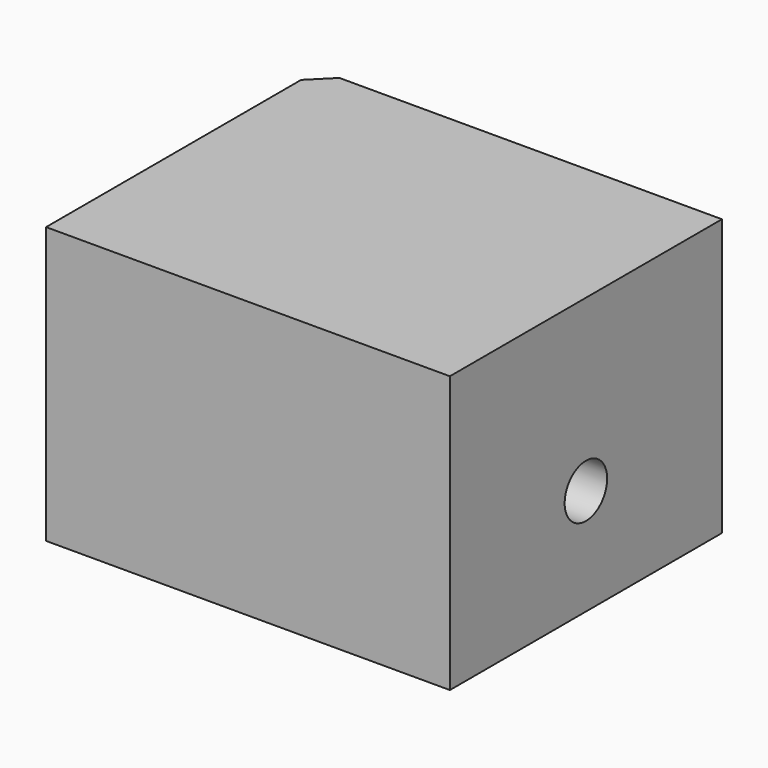
from build123d import *

# Parameters (mm, degrees)
CYLINDER1887_R     = 5
CYLINDER1887_DEPTH = 5
CYLINDER1886_R     = 2.5
CYLINDER1886_DEPTH = 40
CYLINDER1800_R     = 5
CYLINDER1800_DEPTH = 3
CYLINDER1801_R     = 2.5
CYLINDER1801_DEPTH = 20
CYLINDER1798_R     = 1.5
CYLINDER1798_DEPTH = 20
CYLINDER1796_R     = 1.5
CYLINDER1796_DEPTH = 20
CYLINDER1797_R     = 1.5
CYLINDER1797_DEPTH = 20
CYLINDER1799_R     = 1.5
CYLINDER1799_DEPTH = 20
BOX758_W           = 6
BOX758_H           = 6
BOX758_DEPTH       = 2
BOX760_W           = 6
BOX760_H           = 6
BOX760_DEPTH       = 2
BOX759_W           = 6
BOX759_H           = 6
BOX759_DEPTH       = 2
BOX756_W           = 6
BOX756_H           = 6
BOX756_DEPTH       = 2
BOX757_W           = 20
BOX757_H           = 80
BOX757_DEPTH       = 20
BOX761_W           = 38
BOX761_H           = 32
BOX761_DEPTH       = 26
CHAMFER064_SIZE    = 2


with BuildPart() as obj1:
    # Cylinder1887 → Cylinder1887 (new body)
    with BuildSketch(Plane(origin=(-86, 16, 68), x_dir=(0, 0, -1), z_dir=(1, 0, 0))):
        Circle(CYLINDER1887_R)
    extrude(amount=CYLINDER1887_DEPTH)


with BuildPart() as obj2:
    # Cylinder1886 → Cylinder1886 (new body)
    with BuildSketch(Plane(origin=(-90, 16, 68), x_dir=(0, 0, -1), z_dir=(1, 0, 0))):
        Circle(CYLINDER1886_R)
    extrude(amount=CYLINDER1886_DEPTH)


with BuildPart() as obj3:
    # Cylinder1800 → Cylinder1800 (new body)
    with BuildSketch(Plane(origin=(-112, 16, 66), x_dir=(0, 0, -1), z_dir=(1, 0, 0))):
        Circle(CYLINDER1800_R)
    extrude(amount=CYLINDER1800_DEPTH)


with BuildPart() as obj4:
    # Cylinder1801 → Cylinder1801 (new body)
    with BuildSketch(Plane(origin=(-117, 16, 66), x_dir=(0, 0, -1), z_dir=(1, 0, 0))):
        Circle(CYLINDER1801_R)
    extrude(amount=CYLINDER1801_DEPTH)


with BuildPart() as obj5:
    # Cylinder1798 → Cylinder1798 (new body)
    with BuildSketch(Plane(origin=(-83, 25, 54), x_dir=(1, 0, 0), z_dir=(0, 0, 1))):
        Circle(CYLINDER1798_R)
    extrude(amount=CYLINDER1798_DEPTH)


with BuildPart() as obj6:
    # Cylinder1796 → Cylinder1796 (new body)
    with BuildSketch(Plane(origin=(-109, 7, 54), x_dir=(1, 0, 0), z_dir=(0, 0, 1))):
        Circle(CYLINDER1796_R)
    extrude(amount=CYLINDER1796_DEPTH)


with BuildPart() as obj7:
    # Cylinder1797 → Cylinder1797 (new body)
    with BuildSketch(Plane(origin=(-109, 25, 54), x_dir=(1, 0, 0), z_dir=(0, 0, 1))):
        Circle(CYLINDER1797_R)
    extrude(amount=CYLINDER1797_DEPTH)


with BuildPart() as compound920:
    # Cylinder1799 → Cylinder1799 (new body)
    with BuildSketch(Plane(origin=(-83, 7, 54), x_dir=(1, 0, 0), z_dir=(0, 0, 1))):
        Circle(CYLINDER1799_R)
    extrude(amount=CYLINDER1799_DEPTH)

    # Compound920: union obj5, obj6, obj7
    add(obj5.part)
    add(obj6.part)
    add(obj7.part)


with BuildPart() as krychle758:
    # Box758 → Box758 (new body)
    with BuildSketch(Plane(origin=(-112, 22, 60), x_dir=(1, 0, 0), z_dir=(0, 0, 1))):
        with Locations((3, 3)):
            Rectangle(BOX758_W, BOX758_H)
    extrude(amount=BOX758_DEPTH)


with BuildPart() as krychle760:
    # Box760 → Box760 (new body)
    with BuildSketch(Plane(origin=(-86, 4, 60), x_dir=(1, 0, 0), z_dir=(0, 0, 1))):
        with Locations((3, 3)):
            Rectangle(BOX760_W, BOX760_H)
    extrude(amount=BOX760_DEPTH)


with BuildPart() as krychle759:
    # Box759 → Box759 (new body)
    with BuildSketch(Plane(origin=(-86, 22, 60), x_dir=(1, 0, 0), z_dir=(0, 0, 1))):
        with Locations((3, 3)):
            Rectangle(BOX759_W, BOX759_H)
    extrude(amount=BOX759_DEPTH)


with BuildPart() as compound918:
    # Box756 → Box756 (new body)
    with BuildSketch(Plane(origin=(-112, 4, 60), x_dir=(1, 0, 0), z_dir=(0, 0, 1))):
        with Locations((3, 3)):
            Rectangle(BOX756_W, BOX756_H)
    extrude(amount=BOX756_DEPTH)

    # Compound918: union Krychle758, Krychle760, Krychle759
    add(krychle758.part)
    add(krychle760.part)
    add(krychle759.part)


with BuildPart() as krychle757:
    # Box757 → Box757 (new body)
    with BuildSketch(Plane(origin=(-106, 4, 56), x_dir=(1, 0, 0), z_dir=(0, 0, 1))):
        with Locations((10, 40)):
            Rectangle(BOX757_W, BOX757_H)
    extrude(amount=BOX757_DEPTH)


with BuildPart() as cut620:
    # Box761 → Box761 (new body)
    with BuildSketch(Plane(origin=(-112, 0, 56), x_dir=(1, 0, 0), z_dir=(0, 0, 1))):
        with Locations((19, 16)):
            Rectangle(BOX761_W, BOX761_H)
    extrude(amount=BOX761_DEPTH)

    # Cut567: cut Krychle757
    add(krychle757.part, mode=Mode.SUBTRACT)

    # Cut569: cut Compound918
    add(compound918.part, mode=Mode.SUBTRACT)

    # Cut563: cut Compound920
    add(compound920.part, mode=Mode.SUBTRACT)

    # Cut564: cut obj4
    add(obj4.part, mode=Mode.SUBTRACT)

    # Cut560: cut obj3
    add(obj3.part, mode=Mode.SUBTRACT)

    # Chamfer064
    chamfer064_edges = [cut620.edges().sort_by_distance(p)[0] for p in [
        (-112, 32, 69),
    ]]
    chamfer(chamfer064_edges, length=CHAMFER064_SIZE)


with BuildPart() as cut620_1:
    # Chamfer064 placement: moved
    add(cut620.part.moved(Location((0, 0, 2))))

    # Cut619: cut obj2
    add(obj2.part, mode=Mode.SUBTRACT)

    # Cut620: cut obj1
    add(obj1.part, mode=Mode.SUBTRACT)


solid = cut620_1.part
